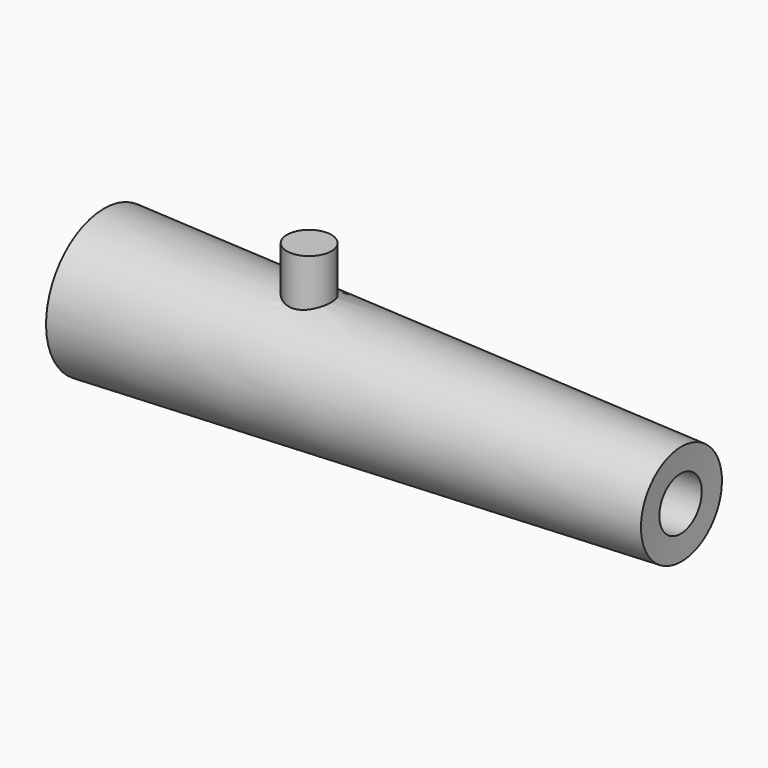
from build123d import *

# Parameters (mm, degrees)
F2_R = 5.8645690574


with BuildPart() as f1:
    # F0 (on Front) → F1 (revolve)
    with BuildSketch(Plane.XZ):
        Polygon((0, -10.5083593323), (-24.3657573125, -9.5872723704), (-23.0980168997, -15.9897317007), (127.6855924946, -21.6897317007), (127.9254671465, -15.3442640149), align=None)
    revolve(axis=Axis((52.2445109597, 0, -28.6897317007), (-1, 0, 0)))

    # F2 (on Top) → F3 (join, up to the next surface of F1)
    with BuildSketch(Plane.XY):
        with Locations((29.7349877656, 0)):
            Circle(F2_R)
    extrude(until=Until.NEXT, dir=(0, 0, -1))


solid = f1.part
